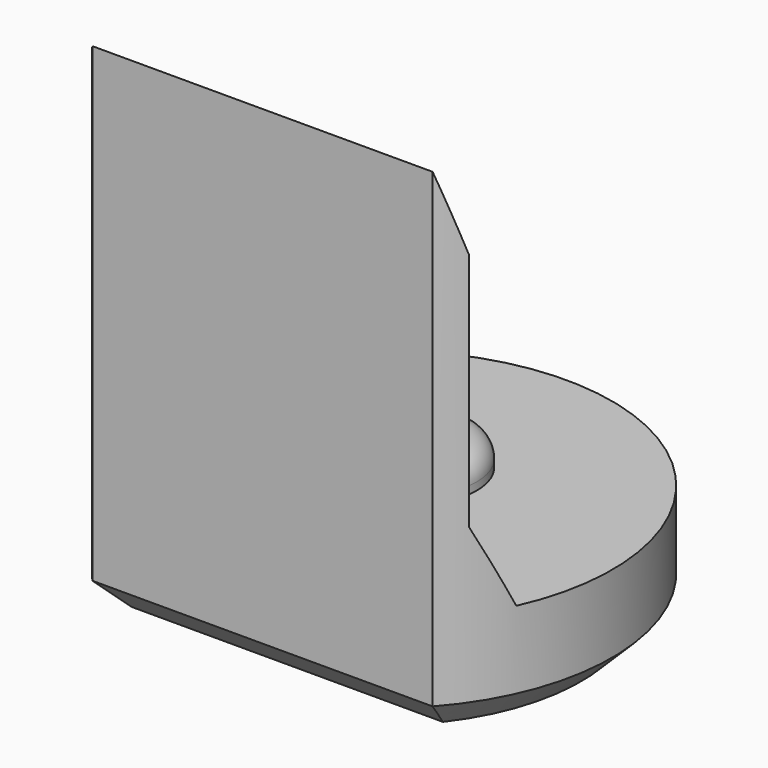
from build123d import *

# Parameters (mm, degrees)
PAD008_DEPTH         = 6.5
POCKET007_DEPTH      = 2.951
POCKET007_DEPTH_BACK = 2.951
SKETCH023_R          = 0.8
PAD009_DEPTH         = 0.4
FILLET001_R          = 0.3
CHAMFER007_SIZE      = 0.4


with BuildPart() as part:
    # Sketch022 → Pad008 (new body)
    with BuildSketch(Plane.XY):
        with BuildLine():
            ThreePointArc((2.2, -1.9653244007), (0, 2.95), (-2.2, -1.9653244007))
            Line((-2.2, -1.9653244007), (2.2, -1.9653244007))
        make_face()
    extrude(amount=PAD008_DEPTH)

    # Sketch024 → Pocket007 (cut, two sides)
    with BuildSketch(Plane.YZ) as pocket007_sk:
        Polygon((-1.97, 6.5), (-1.67, 5.5), (-1.67, 2.4), (-1.22, 1.4), (4, 1.4), (4, 6.5), align=None)
    extrude(amount=-POCKET007_DEPTH, mode=Mode.SUBTRACT)
    extrude(pocket007_sk.sketch, amount=POCKET007_DEPTH_BACK, mode=Mode.SUBTRACT)

    # Sketch023 (on Face7 of Pocket007) → Pad009 (join)
    with BuildSketch(Plane.XY.offset(1.4)):
        with Locations((0, 0.5)):
            Circle(SKETCH023_R)
    extrude(amount=PAD009_DEPTH)

    # Fillet001
    fillet001_edges = [part.edges().sort_by_distance(p)[0] for p in [
        (-0.8, 0.5, 1.8),
    ]]
    fillet(fillet001_edges, radius=FILLET001_R)

    # Chamfer007
    chamfer007_edges = [part.edges().sort_by_distance(p)[0] for p in [
        (0, 2.95, 0),
        (0, -1.965324, 0),
    ]]
    chamfer(chamfer007_edges, length=CHAMFER007_SIZE)


with BuildPart() as part_1:
    # Body095 placement: moved
    add(part.part.moved(Location((0, 90, 0))))


solid = part_1.part
